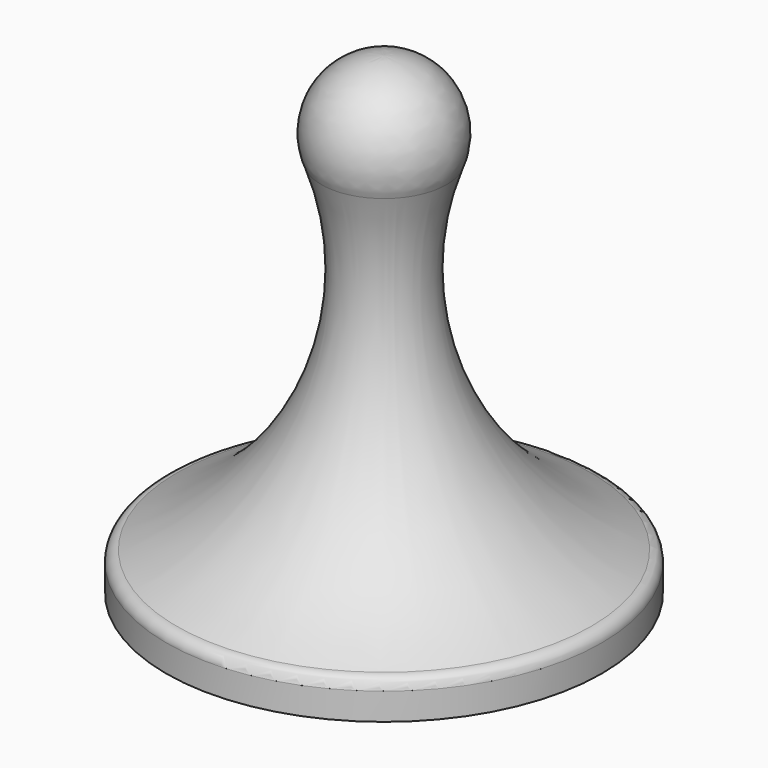
from build123d import *


with BuildPart() as f1:
    # F0 (on Front) → F1 (revolve)
    with BuildSketch(Plane.XZ):
        with BuildLine():
            Line((0, 60), (0, 0))
            Line((0, 0), (32.25, 0))
            Line((32.25, 0), (32.25, 4))
            ThreePointArc((32.25, 4), (31.804632, 5.136738), (30.705599, 5.668387))
            ThreePointArc((30.705599, 5.668387), (9.942524, 26.680603), (9.25508, 56.21272))
            ThreePointArc((9.25508, 56.21272), (8.302795, 65.573473), (0, 70))
            Line((0, 70), (0, 60))
        make_face()
    revolve(axis=Axis((0, 0, 30), (0, 0, 1)))


solid = f1.part
